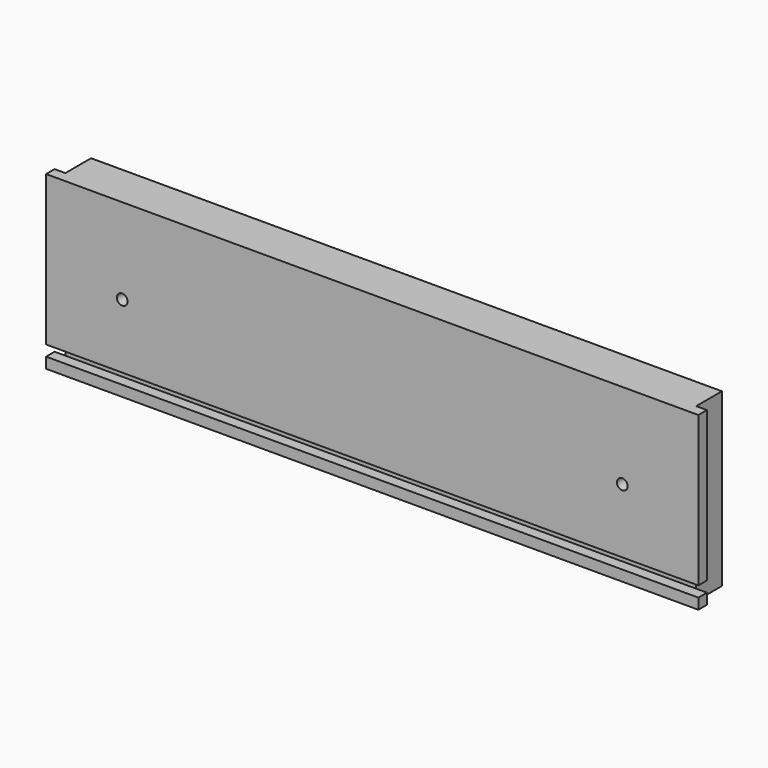
from build123d import *

# Parameters (mm, degrees)
SKETCH047_W             = 182.6
SKETCH047_H             = 48
PAD017_DEPTH            = 12
SKETCH048_W             = 3
SKETCH048_H             = 48
POCKET030_DEPTH         = 9
SKETCH049_W             = 182.6
SKETCH049_H             = 3
POCKET031_DEPTH         = 3
SKETCH054_R             = 1.5
POCKET033_DEPTH         = 12
BODY015_PLACEMENT_ANGLE = 90
BODY018_PLACEMENT_ANGLE = 180


with BuildPart() as part:
    # Sketch047 → Pad017 (new body)
    with BuildSketch(Plane.XY):
        with Locations((0, 24)):
            Rectangle(SKETCH047_W, SKETCH047_H)
    extrude(amount=PAD017_DEPTH)

    # Sketch048 (on Face6 of Pad017) → Pocket030 (cut)
    with BuildSketch(Plane.XY.offset(12)):
        with Locations((-89.8, 24)):
            Rectangle(SKETCH048_W, SKETCH048_H)
    pocket030 = extrude(amount=-POCKET030_DEPTH, mode=Mode.SUBTRACT)

    # Mirrored002: Pocket030 across Sketch048 V_Axis
    add(pocket030.mirror(Plane(origin=(0, 0, 12), x_dir=(0, 0, 1), z_dir=(1, 0, 0))), mode=Mode.SUBTRACT)

    # Sketch049 (on Face2 of Mirrored002) → Pocket031 (cut)
    with BuildSketch(Plane(origin=(0, 0, 0), x_dir=(1, 0, 0), z_dir=(0, 0, -1))):
        with Locations((0, -4.5)):
            Rectangle(SKETCH049_W, SKETCH049_H)
    extrude(amount=-POCKET031_DEPTH, mode=Mode.SUBTRACT)

    # Sketch054 (on Face6 of Pocket031) → Pocket033 (cut)
    with BuildSketch(Plane.XY.offset(12)):
        with Locations((-70, 24)):
            Circle(SKETCH054_R)
    pocket033 = extrude(amount=-POCKET033_DEPTH, mode=Mode.SUBTRACT)

    # Mirrored003: Pocket033 across Sketch054 V_Axis
    add(pocket033.mirror(Plane(origin=(0, 0, 12), x_dir=(0, 0, 1), z_dir=(1, 0, 0))), mode=Mode.SUBTRACT)


with BuildPart() as part_1:
    # Body015 placement: moved
    add(part.part.moved(Location((0, 12, 0))).rotate(Axis((0, 12, 0), (1, 0, 0)), BODY015_PLACEMENT_ANGLE))


with BuildPart() as part_2:
    # Body018 placement: moved
    add(part_1.part.moved(Location((0, 206, 0))).rotate(Axis((0, 206, 0), (0, 0, 1)), BODY018_PLACEMENT_ANGLE))


solid = part_2.part
